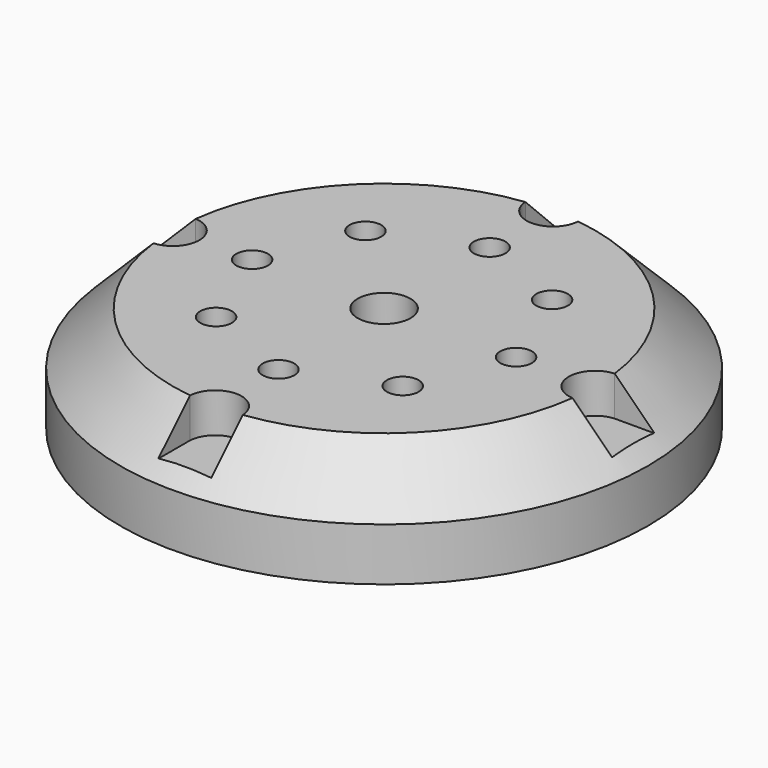
from build123d import *

# Parameters (mm, degrees)
F0_R     = 25.4
F1_DEPTH = 10.16
F2_SIZE  = 5.08
F3_R     = 2.54
F4_DEPTH = 10.161
F5_R     = 1.524
F6_DEPTH = 10.161
F8_DEPTH = 3.81


with BuildPart() as f1:
    # F0 (on Top) → F1 (new body)
    with BuildSketch(Plane.XY):
        Circle(F0_R)
    extrude(amount=F1_DEPTH)

    # F2
    f2_edges = [f1.edges().sort_by_distance(p)[0] for p in [
        (-25.4, 0, 10.16),
    ]]
    chamfer(f2_edges, length=F2_SIZE)

    # F3 (on face) → F4 (cut, through all)
    with BuildSketch(Plane.XY.offset(10.16)):
        Circle(F3_R)
    extrude(amount=-F4_DEPTH, mode=Mode.SUBTRACT)

    # F5 (on face) → F6 (cut, through all)
    with BuildSketch(Plane.XY.offset(10.16)):
        with Locations((-8.980256, -8.980256)):
            Circle(F5_R)
        with Locations((8.980256, -8.980256)):
            Circle(F5_R)
        with Locations((0, 12.7)):
            Circle(F5_R)
        with Locations((-8.980256, 8.980256)):
            Circle(F5_R)
        with Locations((-12.7, 0)):
            Circle(F5_R)
        with Locations((12.7, 0)):
            Circle(F5_R)
        with Locations((8.980256, 8.980256)):
            Circle(F5_R)
        with Locations((0, -12.7)):
            Circle(F5_R)
    extrude(amount=-F6_DEPTH, mode=Mode.SUBTRACT)

    # F7 (on face) → F8 (cut)
    with BuildSketch(Plane.XY.offset(10.16)):
        with BuildLine():
            Line((23.970625, 2.54), (20.160625, 2.54))
            ThreePointArc((20.160625, 2.54), (17.775005, 0), (20.160625, -2.54))
            Line((20.160625, -2.54), (23.970625, -2.54))
            Line((23.970625, -2.54), (23.970625, 2.54))
        make_face()
        with BuildLine():
            Line((23.970625, 2.54), (20.160625, 2.54))
            ThreePointArc((20.160625, 2.54), (17.775005, 0), (20.160625, -2.54))
            Line((20.160625, -2.54), (23.970625, -2.54))
            Line((23.970625, -2.54), (23.970625, 2.54))
        make_face()
        with BuildLine():
            Line((-2.54, 23.970625), (-2.54, 20.160625))
            ThreePointArc((-2.54, 20.160625), (0, 17.775005), (2.54, 20.160625))
            Line((2.54, 20.160625), (2.54, 23.970625))
            Line((2.54, 23.970625), (-2.54, 23.970625))
        make_face()
        with BuildLine():
            Line((-2.54, 23.970625), (-2.54, 20.160625))
            ThreePointArc((-2.54, 20.160625), (0, 17.775005), (2.54, 20.160625))
            Line((2.54, 20.160625), (2.54, 23.970625))
            Line((2.54, 23.970625), (-2.54, 23.970625))
        make_face()
        with BuildLine():
            Line((-23.970625, -2.54), (-20.160625, -2.54))
            ThreePointArc((-20.160625, -2.54), (-17.775005, 0), (-20.160625, 2.54))
            Line((-20.160625, 2.54), (-23.970625, 2.54))
            Line((-23.970625, 2.54), (-23.970625, -2.54))
        make_face()
        with BuildLine():
            Line((-23.970625, -2.54), (-20.160625, -2.54))
            ThreePointArc((-20.160625, -2.54), (-17.775005, 0), (-20.160625, 2.54))
            Line((-20.160625, 2.54), (-23.970625, 2.54))
            Line((-23.970625, 2.54), (-23.970625, -2.54))
        make_face()
        with BuildLine():
            Line((2.54, -23.970625), (2.54, -20.160625))
            ThreePointArc((2.54, -20.160625), (0, -17.775005), (-2.54, -20.160625))
            Line((-2.54, -20.160625), (-2.54, -23.970625))
            Line((-2.54, -23.970625), (2.54, -23.970625))
        make_face()
        with BuildLine():
            Line((2.54, -23.970625), (2.54, -20.160625))
            ThreePointArc((2.54, -20.160625), (0, -17.775005), (-2.54, -20.160625))
            Line((-2.54, -20.160625), (-2.54, -23.970625))
            Line((-2.54, -23.970625), (2.54, -23.970625))
        make_face()
    extrude(amount=-F8_DEPTH, mode=Mode.SUBTRACT)


solid = f1.part
